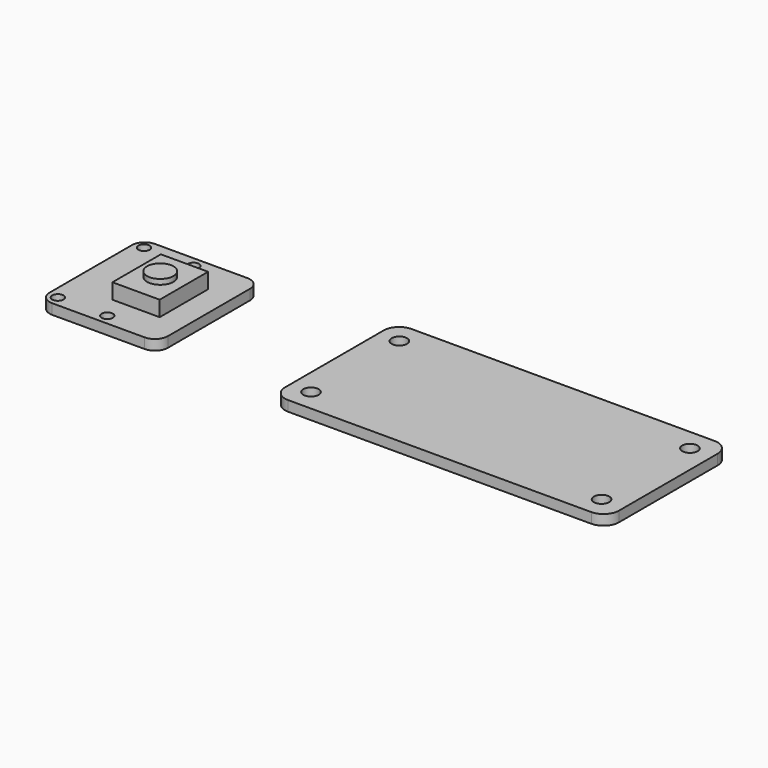
from build123d import *

# Parameters (mm, degrees)
F0_R     = 1.5
F1_DEPTH = 2
F2_R     = 1.1
F2_W     = 9.193212
F2_H     = 11.779058
F2_R_2   = 2.571397
F3_DEPTH = 2
F4_DEPTH = 5
F5_DEPTH = 6


with BuildPart() as f1:
    # F0 (on Top) → F1 (new body)
    with BuildSketch(Plane.XY):
        with BuildLine():
            Line((29.5, 15), (-29.5, 15))
            ThreePointArc((-29.5, 15), (-31.62132, 14.12132), (-32.5, 12))
            Line((-32.5, 12), (-32.5, -12))
            ThreePointArc((-32.5, -12), (-31.62132, -14.12132), (-29.5, -15))
            Line((-29.5, -15), (29.5, -15))
            ThreePointArc((29.5, -15), (31.62132, -14.12132), (32.5, -12))
            Line((32.5, -12), (32.5, 12))
            ThreePointArc((32.5, 12), (31.62132, 14.12132), (29.5, 15))
        make_face()
        with Locations((-28.458294, -10.74818)):
            Circle(F0_R, mode=Mode.SUBTRACT)
        with Locations((28.109893, -10.74818)):
            Circle(F0_R, mode=Mode.SUBTRACT)
        with Locations((-28.458294, 10.748181)):
            Circle(F0_R, mode=Mode.SUBTRACT)
        with Locations((28.109893, 10.748181)):
            Circle(F0_R, mode=Mode.SUBTRACT)
    extrude(amount=F1_DEPTH)


with BuildPart() as f3:
    # F2 (on Top) → F3 (new body)
    with BuildSketch(Plane.XY):
        with BuildLine():
            Line((-59.431438, 12.5), (-77.431438, 12.5))
            ThreePointArc((-77.431438, 12.5), (-79.199205, 11.767767), (-79.931438, 10))
            Line((-79.931438, 10), (-79.931438, -10))
            ThreePointArc((-79.931438, -10), (-79.199205, -11.767767), (-77.431438, -12.5))
            Line((-77.431438, -12.5), (-59.431438, -12.5))
            ThreePointArc((-59.431438, -12.5), (-57.663671, -11.767767), (-56.931438, -10))
            Line((-56.931438, -10), (-56.931438, 10))
            ThreePointArc((-56.931438, 10), (-57.663671, 11.767767), (-59.431438, 12.5))
        make_face()
        with Locations((-77.951849, -10.484321)):
            Circle(F2_R, mode=Mode.SUBTRACT)
        with Locations((-68.329528, -10.484321)):
            Circle(F2_R, mode=Mode.SUBTRACT)
        with Locations((-77.951849, 10.484321)):
            Circle(F2_R, mode=Mode.SUBTRACT)
        with Locations((-66.400975, 0)):
            Rectangle(F2_W, F2_H, mode=Mode.SUBTRACT)
        with Locations((-68.329528, 10.484321)):
            Circle(F2_R, mode=Mode.SUBTRACT)
        with Locations((-66.400975, 0)):
            Rectangle(F2_W, F2_H)
        with Locations((-66.400975, 0)):
            Circle(F2_R_2, mode=Mode.SUBTRACT)
        with Locations((-66.400975, 0)):
            Circle(F2_R_2)
    extrude(amount=F3_DEPTH)

    # F2 (on Top) → F4 (join)
    with BuildSketch(Plane.XY):
        with Locations((-66.400975, 0)):
            Rectangle(F2_W, F2_H)
        with Locations((-66.400975, 0)):
            Circle(F2_R_2, mode=Mode.SUBTRACT)
        with Locations((-66.400975, 0)):
            Circle(F2_R_2)
    extrude(amount=F4_DEPTH)

    # F2 (on Top) → F5 (join)
    with BuildSketch(Plane.XY):
        with Locations((-66.400975, 0)):
            Circle(F2_R_2)
    extrude(amount=F5_DEPTH)


solid = Compound([f1.part, f3.part])
